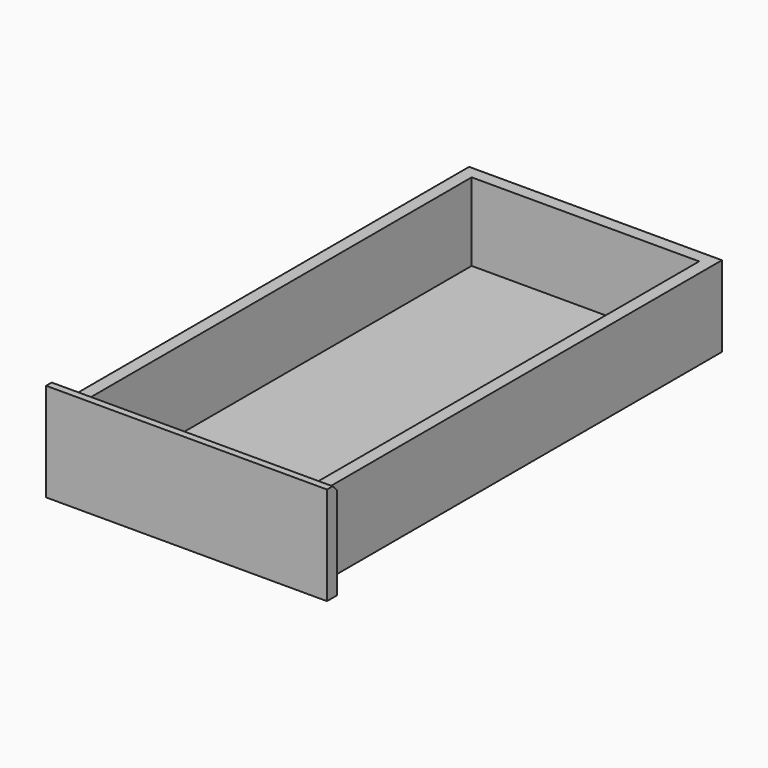
from build123d import *

# Parameters (mm, degrees)
F0_W          = 324
F0_H          = 18
F1_DEPTH      = 115
F2_DEPTH      = 130
F2_DEPTH_BACK = 10
F3_SIZE       = 8
F0_H_2        = 692
F4_DEPTH      = 4


with BuildPart() as f1:
    # F0 (on Top) → F1 (new body)
    with BuildSketch(Plane.XY):
        Polygon((162, 710), (162, 18), (180, 18), (180, 728), (162, 728), align=None)
        with Locations((0, 719)):
            Rectangle(F0_W, F0_H)
        Polygon((-180, 728), (-180, 18), (-162, 18), (-162, 710), (-162, 728), align=None)
    extrude(amount=F1_DEPTH)

    # F0 (on Top) → F2 (join, two sides)
    with BuildSketch(Plane.XY) as f2_sk:
        Polygon((-162, 18), (-180, 18), (-200, 18), (-200, 0), (200, 0), (200, 18), (180, 18), (162, 18), align=None)
    extrude(amount=F2_DEPTH)
    extrude(f2_sk.sketch, amount=-F2_DEPTH_BACK)

    # F3
    f3_edges = [f1.edges().sort_by_distance(p)[0] for p in [
        (0, 18, 130),
    ]]
    chamfer(f3_edges, length=F3_SIZE)

    # F0 (on Top) → F4 (join)
    with BuildSketch(Plane.XY):
        with Locations((0, 364)):
            Rectangle(F0_W, F0_H_2)
    extrude(amount=F4_DEPTH)


solid = f1.part
